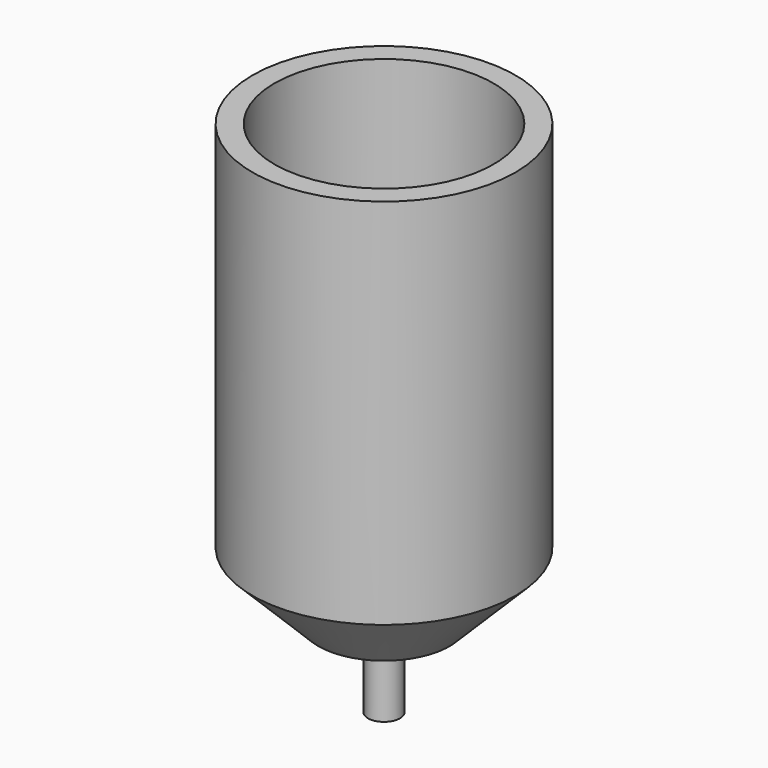
from build123d import *


with BuildPart() as f1:
    # F0 (on Front) → F1 (revolve)
    with BuildSketch(Plane.XZ):
        Polygon((-12.5, -15), (-12.5, 25), (-15, 25), (-15, -17.5), (-7.5, -25), (-5, -25), (-5, -15), align=None)
    revolve(axis=Axis((0, 0, 0.961619), (0, 0, -1)))


with BuildPart() as f3:
    # F2 (on Front) → F3 (revolve)
    with BuildSketch(Plane.XZ):
        Polygon((-11.113269, -15), (-5, -15), (-1.823484, -15), (-1.823484, -34.095868), (0, -34.095868), (0, -12.192428), (-11.113269, -12.192428), align=None)
    revolve(axis=Axis((0, 0, 0.961619), (0, 0, -1)))


solid = Compound([f1.part, f3.part])
